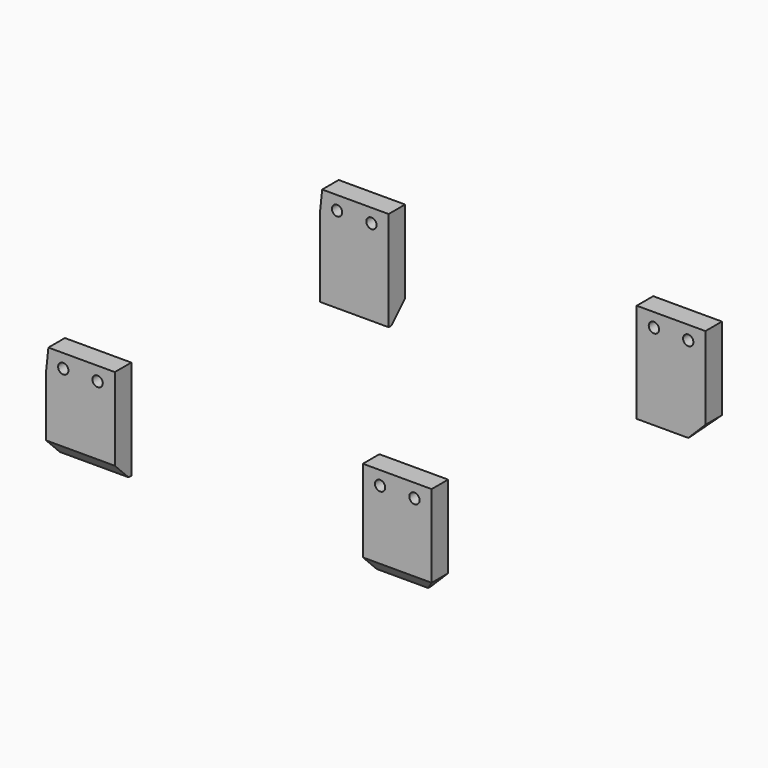
from build123d import *

# Parameters (mm, degrees)
CYLINDER057_R     = 1.5
CYLINDER057_DEPTH = 10
CYLINDER056_R     = 1.5
CYLINDER056_DEPTH = 10
BOX061_W          = 20
BOX061_H          = 6
BOX061_DEPTH      = 29
CHAMFER005_SIZE   = 5
PAD007_DEPTH      = 10
CYLINDER059_R     = 1.5
CYLINDER059_DEPTH = 10
CYLINDER058_R     = 1.5
CYLINDER058_DEPTH = 10
BOX062_W          = 20
BOX062_H          = 6
BOX062_DEPTH      = 29
CHAMFER006_SIZE   = 5


with BuildPart() as cylinder032:
    # Cylinder057 → Cylinder057 (new body)
    with BuildSketch(Plane(origin=(5, 10, 25), x_dir=(1, 0, 0), z_dir=(0, -1, 0))):
        Circle(CYLINDER057_R)
    extrude(amount=CYLINDER057_DEPTH)


with BuildPart() as fusion026:
    # Cylinder056 → Cylinder056 (new body)
    with BuildSketch(Plane(origin=(15, 10, 25), x_dir=(1, 0, 0), z_dir=(0, -1, 0))):
        Circle(CYLINDER056_R)
    extrude(amount=CYLINDER056_DEPTH)

    # Fusion026: union Cylinder032
    add(cylinder032.part)


with BuildPart() as obj1:
    # Box061 → Box061 (new body)
    with BuildSketch(Plane(origin=(0, 3, 0), x_dir=(1, 0, 0), z_dir=(0, 0, 1))):
        with Locations((10, 3)):
            Rectangle(BOX061_W, BOX061_H)
    extrude(amount=BOX061_DEPTH)

    # Cut056: cut Fusion026
    add(fusion026.part, mode=Mode.SUBTRACT)

    # Chamfer005
    chamfer005_edges = [obj1.edges().sort_by_distance(p)[0] for p in [
        (10, 3, 0),
        (20, 6, 0),
    ]]
    chamfer(chamfer005_edges, length=CHAMFER005_SIZE)


with BuildPart() as obj1_1:
    # Chamfer005 placement: moved
    add(obj1.part.moved(Location((97, -0.8, 2))))


with BuildPart() as body005:
    # Sketch011 → Pad007 (new body)
    with BuildSketch(Plane.XZ):
        Polygon((0, 0), (2.01, 0), (5.876949, 36.79156), (3.866949, 36.79156), align=None)
    extrude(amount=-PAD007_DEPTH)


with BuildPart() as cylinder034:
    # Cylinder059 → Cylinder059 (new body)
    with BuildSketch(Plane(origin=(5, 10, 25), x_dir=(1, 0, 0), z_dir=(0, -1, 0))):
        Circle(CYLINDER059_R)
    extrude(amount=CYLINDER059_DEPTH)


with BuildPart() as fusion027:
    # Cylinder058 → Cylinder058 (new body)
    with BuildSketch(Plane(origin=(15, 10, 25), x_dir=(1, 0, 0), z_dir=(0, -1, 0))):
        Circle(CYLINDER058_R)
    extrude(amount=CYLINDER058_DEPTH)

    # Fusion027: union Cylinder034
    add(cylinder034.part)


with BuildPart() as obj2:
    # Box062 → Box062 (new body)
    with BuildSketch(Plane(origin=(0, 3, 0), x_dir=(1, 0, 0), z_dir=(0, 0, 1))):
        with Locations((10, 3)):
            Rectangle(BOX062_W, BOX062_H)
    extrude(amount=BOX062_DEPTH)

    # Cut057: cut Fusion027
    add(fusion027.part, mode=Mode.SUBTRACT)

    # Chamfer006
    chamfer006_edges = [obj2.edges().sort_by_distance(p)[0] for p in [
        (10, 3, 0),
    ]]
    chamfer(chamfer006_edges, length=CHAMFER006_SIZE)


with BuildPart() as obj2_1:
    # Chamfer006 placement: moved
    add(obj2.part.moved(Location((4.6, 0, 2))))

    # Cut058: cut Body005
    add(body005.part, mode=Mode.SUBTRACT)


with BuildPart() as obj2_2:
    # Cut058 placement: moved
    add(obj2_1.part.moved(Location((0.2, -0.8, 0))))


with BuildPart() as obj3:
    # mirror003: instance of obj2
    add(obj2_2.part.mirror(Plane(origin=(0, 0, 0), x_dir=(1, 0, 0), z_dir=(0, 1, 0))))


with BuildPart() as obj3_1:
    # mirror003 placement: moved
    add(obj3.part.moved(Location((0, 110, 0))))


with BuildPart() as obj1_m:
    # mirror002: instance of obj1
    add(obj1_1.part.mirror(Plane(origin=(0, 0, 0), x_dir=(1, 0, 0), z_dir=(0, 1, 0))))


with BuildPart() as obj1_m_1:
    # mirror002 placement: moved
    add(obj1_m.part.moved(Location((0, 110, 0))))


with BuildPart() as obj4:
    # Fusion028 base: copy of obj2
    add(obj2_2.part)

    # Fusion028: union obj1, obj3, obj1_m
    add(obj1_1.part)
    add(obj3_1.part)
    add(obj1_m_1.part)


solid = obj4.part
